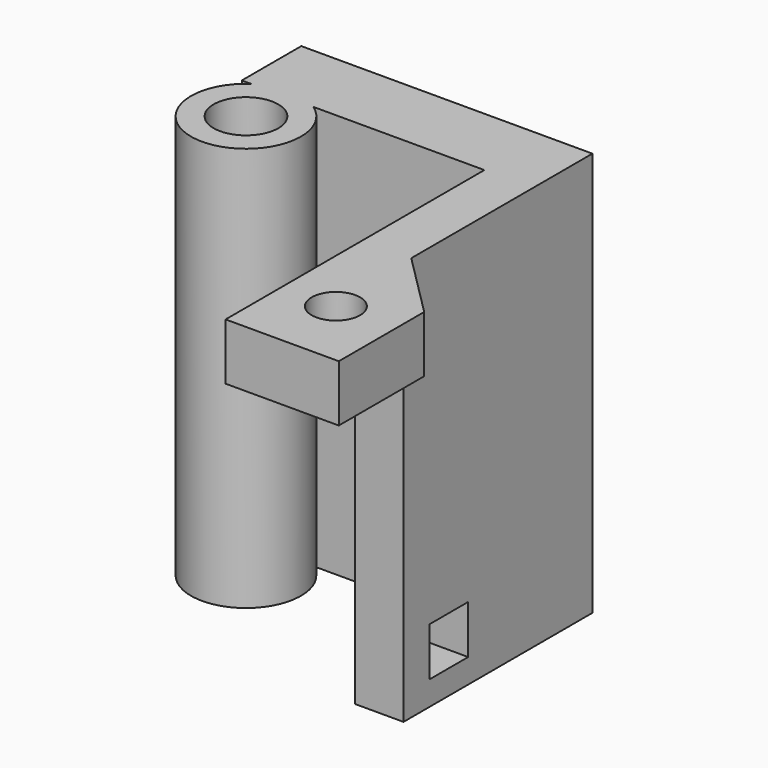
from build123d import *

# Parameters (mm, degrees)
CYLINDER040_R          = 1.75
CYLINDER040_DEPTH      = 44
CYLINDER040_ROLL_ANGLE = 90
CYLINDER049_R          = 2
CYLINDER049_DEPTH      = 42
CYLINDER051_R          = 1.5
CYLINDER051_DEPTH      = 42
CYLINDER053_R          = 4
CYLINDER053_DEPTH      = 4
CYLINDER053_ROLL_ANGLE = 90
CYLINDER054_R          = 4
CYLINDER054_DEPTH      = 4
CYLINDER054_ROLL_ANGLE = 90
BOX089_W               = 42
BOX089_H               = 3
BOX089_DEPTH           = 3
CYLINDER043_R          = 1.75
CYLINDER043_DEPTH      = 44
CYLINDER043_ROLL_ANGLE = 90
CYLINDER048_R          = 3.4
CYLINDER048_DEPTH      = 25
BOX084_W               = 3
BOX084_H               = 14.6
BOX084_DEPTH           = 25
BOX085_W               = 7
BOX085_H               = 10.6
BOX085_DEPTH           = 3.5
CHAMFER_SIZE           = 4
BOX080_W               = 15
BOX080_H               = 4.6
BOX080_DEPTH           = 25


with BuildPart() as cylinder_for_hole_3_motherboard003:
    # Cylinder040 → Cylinder040 (new body)
    with BuildSketch(Plane.XY):
        Circle(CYLINDER040_R)
    extrude(amount=CYLINDER040_DEPTH)


with BuildPart() as cylinder_for_hole_3_motherboard003_1:
    # Cylinder040 roll: moved
    add(cylinder_for_hole_3_motherboard003.part.rotate(Axis((0, 0, 0), (1, 0, 0)), CYLINDER040_ROLL_ANGLE))


with BuildPart() as cylinder_for_hole_3_motherboard003_2:
    # Cylinder040 placement: moved
    add(cylinder_for_hole_3_motherboard003_1.part.moved(Location((-20, 6, -13.5))))


with BuildPart() as blower_screw:
    # Cylinder049 → Cylinder049 (new body)
    with BuildSketch(Plane(origin=(-30, -23, -19), x_dir=(1, 0, 0), z_dir=(0, 0, 1))):
        Circle(CYLINDER049_R)
    extrude(amount=CYLINDER049_DEPTH)


with BuildPart() as extruder_screw_l:
    # Cylinder051 → Cylinder051 (new body)
    with BuildSketch(Plane(origin=(-14.2, -35.8, -8), x_dir=(1, 0, 0), z_dir=(0, 0, 1))):
        Circle(CYLINDER051_R)
    extrude(amount=CYLINDER051_DEPTH)


with BuildPart() as cylinder053:
    # Cylinder053 → Cylinder053 (new body)
    with BuildSketch(Plane.XY):
        Circle(CYLINDER053_R)
    extrude(amount=CYLINDER053_DEPTH)


with BuildPart() as cylinder053_1:
    # Cylinder053 roll: moved
    add(cylinder053.part.rotate(Axis((0, 0, 0), (1, 0, 0)), CYLINDER053_ROLL_ANGLE))


with BuildPart() as cylinder053_2:
    # Cylinder053 placement: moved
    add(cylinder053_1.part.moved(Location((-20, -20, -2.5))))


with BuildPart() as cylinder054:
    # Cylinder054 → Cylinder054 (new body)
    with BuildSketch(Plane.XY):
        Circle(CYLINDER054_R)
    extrude(amount=CYLINDER054_DEPTH)


with BuildPart() as cylinder054_1:
    # Cylinder054 roll: moved
    add(cylinder054.part.rotate(Axis((0, 0, 0), (1, 0, 0)), CYLINDER054_ROLL_ANGLE))


with BuildPart() as cylinder054_2:
    # Cylinder054 placement: moved
    add(cylinder054_1.part.moved(Location((-20, -20, -13.5))))


with BuildPart() as fastener_hole001:
    # Box089 → Box089 (new body)
    with BuildSketch(Plane(origin=(-21.5, -28.2, -17.5), x_dir=(1, 0, 0), z_dir=(0, 0, 1))):
        with Locations((21, 1.5)):
            Rectangle(BOX089_W, BOX089_H)
    extrude(amount=BOX089_DEPTH)


with BuildPart() as blower_retention_holes:
    # Cylinder043 → Cylinder043 (new body)
    with BuildSketch(Plane.XY):
        Circle(CYLINDER043_R)
    extrude(amount=CYLINDER043_DEPTH)


with BuildPart() as blower_retention_holes_1:
    # Cylinder043 roll: moved
    add(blower_retention_holes.part.rotate(Axis((0, 0, 0), (1, 0, 0)), CYLINDER043_ROLL_ANGLE))


with BuildPart() as blower_retention_holes_2:
    # Cylinder043 placement: moved
    add(blower_retention_holes_1.part.moved(Location((-20, 6, -2.5))))

    # Fusion023: union cylinder for hole 3 - Motherboard003, blower screw, extruder screw  L, Cylinder053, Cylinder054, fastener hole001
    add(cylinder_for_hole_3_motherboard003_2.part)
    add(blower_screw.part)
    add(extruder_screw_l.part)
    add(cylinder053_2.part)
    add(cylinder054_2.part)
    add(fastener_hole001.part)


with BuildPart() as blower_retention:
    # Cylinder048 → Cylinder048 (new body)
    with BuildSketch(Plane(origin=(-30, -23, -19), x_dir=(1, 0, 0), z_dir=(0, 0, 1))):
        Circle(CYLINDER048_R)
    extrude(amount=CYLINDER048_DEPTH)


with BuildPart() as motor_bracket_base_l_lower:
    # Box084 → Box084 (new body)
    with BuildSketch(Plane(origin=(-17.5, -30.2, -19), x_dir=(1, 0, 0), z_dir=(0, 0, 1))):
        with Locations((1.5, 7.3)):
            Rectangle(BOX084_W, BOX084_H)
    extrude(amount=BOX084_DEPTH)


with BuildPart() as motor_bracket_base_l_upper_chamfered:
    # Box085 → Box085 (new body)
    with BuildSketch(Plane(origin=(-17.5, -40.2, 2.5), x_dir=(1, 0, 0), z_dir=(0, 0, 1))):
        with Locations((3.5, 5.3)):
            Rectangle(BOX085_W, BOX085_H)
    extrude(amount=BOX085_DEPTH)

    # Chamfer
    chamfer_edges = [motor_bracket_base_l_upper_chamfered.edges().sort_by_distance(p)[0] for p in [
        (-10.5, -29.6, 4.25),
    ]]
    chamfer(chamfer_edges, length=CHAMFER_SIZE)


with BuildPart() as blower_retention_arm_with_holes:
    # Box080 → Box080 (new body)
    with BuildSketch(Plane(origin=(-32.5, -20.2, -19), x_dir=(1, 0, 0), z_dir=(0, 0, 1))):
        with Locations((7.5, 2.3)):
            Rectangle(BOX080_W, BOX080_H)
    extrude(amount=BOX080_DEPTH)

    # Fusion022: union blower retention, motor bracket base L lower, motor bracket base L upper chamfered
    add(blower_retention.part)
    add(motor_bracket_base_l_lower.part)
    add(motor_bracket_base_l_upper_chamfered.part)

    # Cut013: cut blower retention holes
    add(blower_retention_holes_2.part, mode=Mode.SUBTRACT)


solid = blower_retention_arm_with_holes.part
